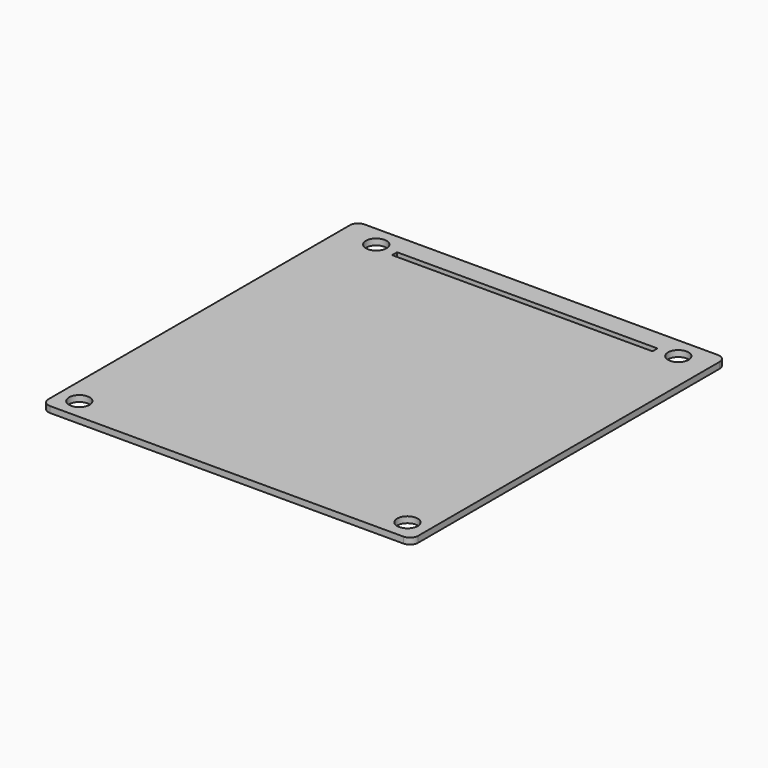
from build123d import *

# Parameters (mm, degrees)
F0_W     = 63.5
F0_H     = 1.5288994515
F1_DEPTH = 1.5
F2_D     = 5


with BuildPart() as f1:
    # F0 (on Top) → F1 (new body)
    with BuildSketch(Plane.XY):
        with BuildLine():
            ThreePointArc((45.085, 45.945), (44.4992135624, 47.3592135624), (43.085, 47.945))
            Line((43.085, 47.945), (-43.085, 47.945))
            ThreePointArc((-43.085, 47.945), (-44.4992135624, 47.3592135624), (-45.085, 45.945))
            Line((-45.085, 45.945), (-45.085, -45.945))
            ThreePointArc((-45.085, -45.945), (-44.4992135624, -47.3592135624), (-43.085, -47.945))
            Line((-43.085, -47.945), (43.085, -47.945))
            ThreePointArc((43.085, -47.945), (44.4992135624, -47.3592135624), (45.085, -45.945))
            Line((45.085, -45.945), (45.085, 45.945))
        make_face()
        with Locations((0.645, 42.1005502743)):
            Rectangle(F0_W, F0_H, mode=Mode.SUBTRACT)
    extrude(amount=F1_DEPTH)

    # F2 (through all)
    with Locations(Plane(origin=(0, 0, 0), x_dir=(1, 0, 0), z_dir=(0, 0, -1))):
        with Locations((-36.185, -42.865), (37.475, -42.865), (40.015, 42.8651091478), (-39.995, 42.8651091478)):
            Hole(F2_D / 2)


solid = f1.part
